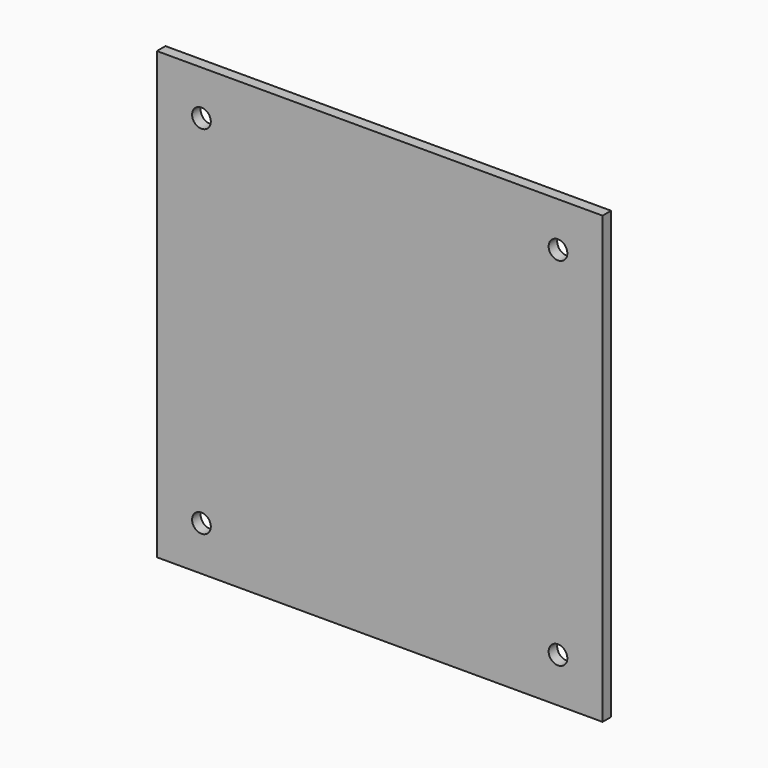
from build123d import *

# Parameters (mm, degrees)
F0_W     = 250
F0_H     = 250
F1_DEPTH = 6
F2_D     = 10.5


with BuildPart() as f1:
    # F0 (on Front) → F1 (new body)
    with BuildSketch(Plane.XZ):
        Rectangle(F0_W, F0_H)
    extrude(amount=F1_DEPTH)

    # F2 (through all)
    with Locations(Plane(origin=(0, 0, 0), x_dir=(1, 0, 0), z_dir=(0, 1, 0))):
        with Locations((100, -100), (100, 100), (-100, 100), (-100, -100)):
            Hole(F2_D / 2)


solid = f1.part
